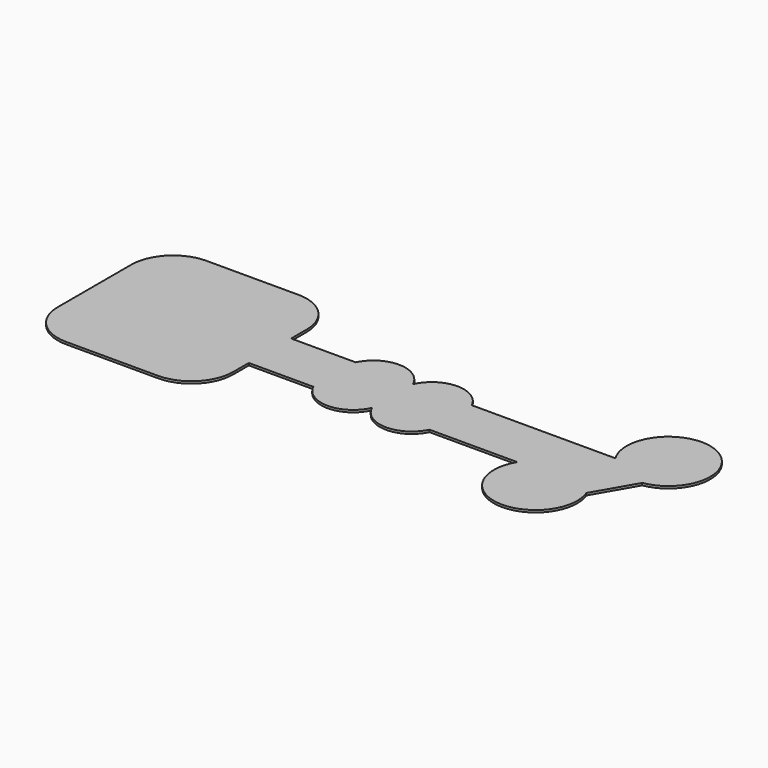
from build123d import *

# Parameters (mm, degrees)
F0_W     = 16
F0_H     = 4.5
F0_W_2   = 6.5
F0_W_3   = 4
F1_DEPTH = 0.4


with BuildPart() as f1:
    # F0 (on Top) → F1 (new body)
    with BuildSketch(Plane.XY):
        with BuildLine():
            Line((15.75, 4.75), (15.75, 8.25))
            ThreePointArc((15.75, 8.25), (13.5533008589, 13.5533008589), (8.25, 15.75))
            Line((8.25, 15.75), (-8.25, 15.75))
            ThreePointArc((-8.25, 15.75), (-13.5533008589, 13.5533008589), (-15.75, 8.25))
            Line((-15.75, 8.25), (-15.75, -8.25))
            ThreePointArc((-15.75, -8.25), (-13.5533008589, -13.5533008589), (-8.25, -15.75))
            Line((-8.25, -15.75), (8.25, -15.75))
            ThreePointArc((8.25, -15.75), (13.5533008589, -13.5533008589), (15.75, -8.25))
            Line((15.75, -8.25), (15.75, -4.75))
            Line((15.75, -4.75), (27.3219212057, -4.75))
            ThreePointArc((27.3219212057, -4.75), (32.5853423404, -7.9993666334), (37.75, -4.5952078799))
            ThreePointArc((37.75, -4.5952078799), (42.9146576596, -7.9993666334), (48.1780787943, -4.75))
            Line((48.1780787943, -4.75), (63.9480829801, -4.75))
            ThreePointArc((63.9480829801, -4.75), (69.6474451199, -16.1274567319), (77.3637435709, -6.0087617221))
            Line((77.3637435709, -6.0087617221), (81.5596501878, 1.2587617221))
            ThreePointArc((81.5596501878, 1.2587617221), (83.4749132345, 15.4773568118), (73.9480829801, 4.75))
            Line((73.9480829801, 4.75), (48.1780787943, 4.75))
            ThreePointArc((48.1780787943, 4.75), (42.9146576596, 7.9993666334), (37.75, 4.5952078799))
            ThreePointArc((37.75, 4.5952078799), (32.5853423404, 7.9993666334), (27.3219212057, 4.75))
            Line((27.3219212057, 4.75), (15.75, 4.75))
        make_face()
        with BuildLine():
            Line((4.5, 13.25), (8.25, 13.25))
            ThreePointArc((8.25, 13.25), (11.7855339059, 11.7855339059), (13.25, 8.25))
            Line((13.25, 8.25), (13.25, 4.5))
            Line((13.25, 4.5), (13.25, 2.25))
            Line((13.25, 2.25), (29.25, 2.25))
            ThreePointArc((29.25, 2.25), (32.5, 5.5), (35.75, 2.25))
            Line((35.75, 2.25), (39.75, 2.25))
            ThreePointArc((39.75, 2.25), (43, 5.5), (46.25, 2.25))
            Line((46.25, 2.25), (74.0490381057, 2.25))
            Line((74.0490381057, 2.25), (76.1669476654, 5.9183269633))
            ThreePointArc((76.1669476654, 5.9183269633), (82.8480762114, 12.9903810568), (80.0640619824, 3.6683269633))
            Line((80.0640619824, 3.6683269633), (74.5292047573, -5.9183269633))
            ThreePointArc((74.5292047573, -5.9183269633), (67.8480762114, -12.9903810568), (70.6320904403, -3.6683269633))
            Line((70.6320904403, -3.6683269633), (71.4509618943, -2.25))
            Line((71.4509618943, -2.25), (46.25, -2.25))
            ThreePointArc((46.25, -2.25), (43, -5.5), (39.75, -2.25))
            Line((39.75, -2.25), (35.75, -2.25))
            ThreePointArc((35.75, -2.25), (32.5, -5.5), (29.25, -2.25))
            Line((29.25, -2.25), (13.25, -2.25))
            Line((13.25, -2.25), (13.25, -4.5))
            Line((13.25, -4.5), (13.25, -8.25))
            ThreePointArc((13.25, -8.25), (11.7855339059, -11.7855339059), (8.25, -13.25))
            Line((8.25, -13.25), (4.5, -13.25))
            Line((4.5, -13.25), (-4.5, -13.25))
            Line((-4.5, -13.25), (-8.25, -13.25))
            ThreePointArc((-8.25, -13.25), (-11.7855339059, -11.7855339059), (-13.25, -8.25))
            Line((-13.25, -8.25), (-13.25, -4.5))
            Line((-13.25, -4.5), (-13.25, 4.5))
            Line((-13.25, 4.5), (-13.25, 8.25))
            ThreePointArc((-13.25, 8.25), (-11.7855339059, 11.7855339059), (-8.25, 13.25))
            Line((-8.25, 13.25), (-4.5, 13.25))
            Line((-4.5, 13.25), (4.5, 13.25))
        make_face(mode=Mode.SUBTRACT)
        Polygon((74.0490381057, 2.25), (46.25, 2.25), (46.25, -2.25), (71.4509618943, -2.25), align=None)
        Polygon((4.5, 4.5), (4.5, 13.25), (-4.5, 13.25), (-4.5, 4.5), (0, 4.5), align=None)
        Polygon((13.25, 4.5), (4.5, 4.5), (4.5, 0), (4.5, -4.5), (13.25, -4.5), (13.25, -2.25), (13.25, 2.25), align=None)
        Polygon((-4.5, 0), (-4.5, 4.5), (-13.25, 4.5), (-13.25, -4.5), (-4.5, -4.5), align=None)
        Polygon((4.5, -4.5), (0, -4.5), (-4.5, -4.5), (-4.5, -13.25), (4.5, -13.25), align=None)
        with BuildLine():
            ThreePointArc((80.0640619824, 3.6683269633), (82.8480762114, 12.9903810568), (76.1669476654, 5.9183269633))
            ThreePointArc((76.1669476654, 5.9183269633), (77.8480762114, 4.3301270189), (80.0640619824, 3.6683269633))
        make_face()
        with BuildLine():
            ThreePointArc((74.5292047573, -5.9183269633), (72.8480762114, -4.3301270189), (70.6320904403, -3.6683269633))
            ThreePointArc((70.6320904403, -3.6683269633), (67.8480762114, -12.9903810568), (74.5292047573, -5.9183269633))
        make_face()
        with Locations((21.25, 0)):
            Rectangle(F0_W, F0_H)
        with BuildLine():
            Line((-4.5, 4.5), (-4.5, 13.25))
            Line((-4.5, 13.25), (-8.25, 13.25))
            ThreePointArc((-8.25, 13.25), (-11.7855339059, 11.7855339059), (-13.25, 8.25))
            Line((-13.25, 8.25), (-13.25, 4.5))
            Line((-13.25, 4.5), (-4.5, 4.5))
        make_face()
        with BuildLine():
            Line((13.25, -4.5), (4.5, -4.5))
            Line((4.5, -4.5), (4.5, -13.25))
            Line((4.5, -13.25), (8.25, -13.25))
            ThreePointArc((8.25, -13.25), (11.7855339059, -11.7855339059), (13.25, -8.25))
            Line((13.25, -8.25), (13.25, -4.5))
        make_face()
        with BuildLine():
            Line((-4.5, -13.25), (-4.5, -4.5))
            Line((-4.5, -4.5), (-13.25, -4.5))
            Line((-13.25, -4.5), (-13.25, -8.25))
            ThreePointArc((-13.25, -8.25), (-11.7855339059, -11.7855339059), (-8.25, -13.25))
            Line((-8.25, -13.25), (-4.5, -13.25))
        make_face()
        with BuildLine():
            ThreePointArc((13.25, 8.25), (11.7855339059, 11.7855339059), (8.25, 13.25))
            Line((8.25, 13.25), (4.5, 13.25))
            Line((4.5, 13.25), (4.5, 4.5))
            Line((4.5, 4.5), (13.25, 4.5))
            Line((13.25, 4.5), (13.25, 8.25))
        make_face()
        with BuildLine():
            ThreePointArc((0, -4.5), (3.1819805153, -3.1819805153), (4.5, 0))
            ThreePointArc((4.5, 0), (3.1819805153, 3.1819805153), (0, 4.5))
            ThreePointArc((0, 4.5), (-3.1819805153, 3.1819805153), (-4.5, 0))
            ThreePointArc((-4.5, 0), (-3.1819805153, -3.1819805153), (0, -4.5))
        make_face()
        with BuildLine():
            Line((76.1669476654, 5.9183269633), (74.0490381057, 2.25))
            Line((74.0490381057, 2.25), (71.4509618943, -2.25))
            Line((71.4509618943, -2.25), (70.6320904403, -3.6683269633))
            ThreePointArc((70.6320904403, -3.6683269633), (72.8480762114, -4.3301270189), (74.5292047573, -5.9183269633))
            Line((74.5292047573, -5.9183269633), (80.0640619824, 3.6683269633))
            ThreePointArc((80.0640619824, 3.6683269633), (77.8480762114, 4.3301270189), (76.1669476654, 5.9183269633))
        make_face()
        with Locations((43, 0)):
            Rectangle(F0_W_2, F0_H)
        with Locations((32.5, 0)):
            Rectangle(F0_W_2, F0_H)
        with Locations((37.75, 0)):
            Rectangle(F0_W_3, F0_H)
        with BuildLine():
            Line((35.75, -2.25), (29.25, -2.25))
            ThreePointArc((29.25, -2.25), (32.5, -5.5), (35.75, -2.25))
        make_face()
        with BuildLine():
            ThreePointArc((35.75, 2.25), (32.5, 5.5), (29.25, 2.25))
            Line((29.25, 2.25), (35.75, 2.25))
        make_face()
        with BuildLine():
            Line((46.25, -2.25), (39.75, -2.25))
            ThreePointArc((39.75, -2.25), (43, -5.5), (46.25, -2.25))
        make_face()
        with BuildLine():
            ThreePointArc((46.25, 2.25), (43, 5.5), (39.75, 2.25))
            Line((39.75, 2.25), (46.25, 2.25))
        make_face()
        with BuildLine():
            ThreePointArc((0, -4.5), (-3.1819805153, -3.1819805153), (-4.5, 0))
            Line((-4.5, 0), (-4.5, -4.5))
            Line((-4.5, -4.5), (0, -4.5))
        make_face()
        with BuildLine():
            Line((4.5, -4.5), (4.5, 0))
            ThreePointArc((4.5, 0), (3.1819805153, -3.1819805153), (0, -4.5))
            Line((0, -4.5), (4.5, -4.5))
        make_face()
        with BuildLine():
            Line((4.5, 0), (4.5, 4.5))
            Line((4.5, 4.5), (0, 4.5))
            ThreePointArc((0, 4.5), (3.1819805153, 3.1819805153), (4.5, 0))
        make_face()
        with BuildLine():
            Line((0, 4.5), (-4.5, 4.5))
            Line((-4.5, 4.5), (-4.5, 0))
            ThreePointArc((-4.5, 0), (-3.1819805153, 3.1819805153), (0, 4.5))
        make_face()
    extrude(amount=F1_DEPTH)


solid = f1.part
